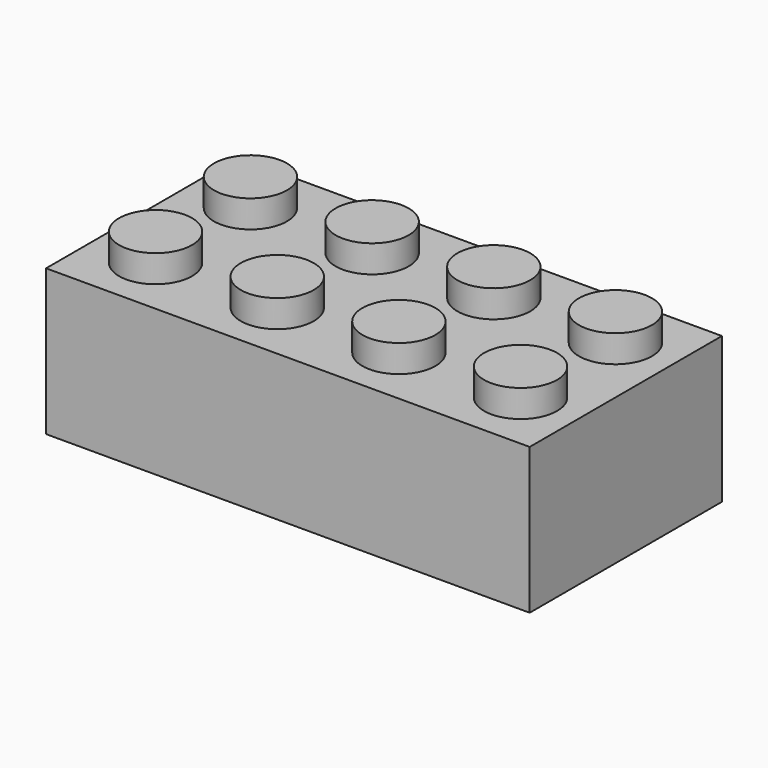
from build123d import *

# Parameters (mm, degrees)
SKETCH_W               = 47.7
SKETCH_H               = 23.7
PAD_DEPTH              = 14.4
SKETCH001_W            = 44.1
SKETCH001_H            = 20.1
POCKET_DEPTH           = 12.6
SKETCH002_R            = 3.6
PAD001_DEPTH           = 2.7
LINEARPATTERN_COUNT    = 4
LINEARPATTERN_PITCH    = 12
SKETCH003_R            = 4.8825
PAD002_DEPTH           = 12.6
LINEARPATTERN001_COUNT = 3
LINEARPATTERN001_PITCH = 12
SKETCH004_R            = 3.6
POCKET001_DEPTH        = 12.6
LINEARPATTERN002_COUNT = 3
LINEARPATTERN002_PITCH = 12


with BuildPart() as part:
    # Sketch → Pad (new body)
    with BuildSketch(Plane.XY):
        with Locations((23.85, -11.85)):
            Rectangle(SKETCH_W, SKETCH_H)
    extrude(amount=PAD_DEPTH)

    # Sketch001 (on Face5 of Pad) → Pocket (cut)
    with BuildSketch(Plane(origin=(0, 0, 0), x_dir=(1, 0, 0), z_dir=(0, 0, -1))):
        with Locations((23.85, 11.85)):
            Rectangle(SKETCH001_W, SKETCH001_H)
    extrude(amount=-POCKET_DEPTH, mode=Mode.SUBTRACT)

    # Sketch002 (on Face5 of Pocket) → Pad001 (join)
    with BuildSketch(Plane.XY.offset(14.4)):
        with Locations((6, -6)):
            Circle(SKETCH002_R)
        with Locations((6, -17.7)):
            Circle(SKETCH002_R)
    pad001 = extrude(amount=PAD001_DEPTH)

    # LinearPattern: Pad001 ×4
    with Locations(*[(i * LINEARPATTERN_PITCH, 0, 0) for i in range(1, LINEARPATTERN_COUNT)]):
        add(pad001)

    # Sketch003 (on Face19 of LinearPattern) → Pad002 (join)
    with BuildSketch(Plane(origin=(0, 0, 12.6), x_dir=(1, 0, 0), z_dir=(0, 0, -1))):
        with Locations((12, 11.7)):
            Circle(SKETCH003_R)
    pad002 = extrude(amount=PAD002_DEPTH)

    # LinearPattern001: Pad002 ×3
    with Locations(*[(i * LINEARPATTERN001_PITCH, 0, 0) for i in range(1, LINEARPATTERN001_COUNT)]):
        add(pad002)

    # Sketch004 (on Face31 of LinearPattern001) → Pocket001 (cut)
    with BuildSketch(Plane(origin=(0, 0, 0), x_dir=(1, 0, 0), z_dir=(0, 0, -1))):
        with Locations((12, 11.7)):
            Circle(SKETCH004_R)
    pocket001 = extrude(amount=-POCKET001_DEPTH, mode=Mode.SUBTRACT)

    # LinearPattern002: Pocket001 ×3
    with Locations(*[(i * LINEARPATTERN002_PITCH, 0, 0) for i in range(1, LINEARPATTERN002_COUNT)]):
        add(pocket001, mode=Mode.SUBTRACT)


solid = part.part
